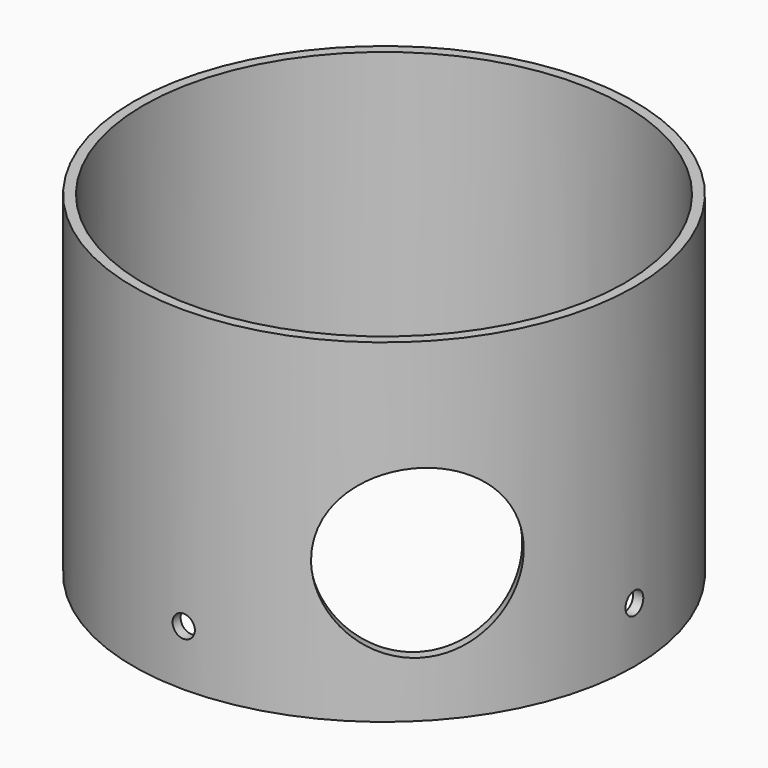
from build123d import *

# Parameters (mm, degrees)
TUBE_R             = 45
TUBE_R_2           = 43.2
TUBE_DEPTH         = 60
SKETCH_R           = 2
POCKET_DEPTH       = 326.425946
POCKET_DEPTH_BACK  = 326.425946
POLARPATTERN_COUNT = 4
SKETCH003_R        = 15
POCKET001_DEPTH    = 63.64061


with BuildPart() as part:
    # Tube → Tube (new body)
    with BuildSketch(Plane.XY):
        Circle(TUBE_R)
        Circle(TUBE_R_2, mode=Mode.SUBTRACT)
    extrude(amount=TUBE_DEPTH)

    # Sketch → Pocket (cut, two sides)
    with BuildSketch(Plane.XZ) as pocket_sk:
        with Locations((0, 10)):
            Circle(SKETCH_R)
    pocket = extrude(amount=-POCKET_DEPTH, mode=Mode.SUBTRACT) + extrude(pocket_sk.sketch, amount=POCKET_DEPTH_BACK, mode=Mode.SUBTRACT)

    # PolarPattern: Pocket ×4 about axis
    polarpattern_axis = Axis((0, 0, 0), (0, 0, 1))
    for i in range(1, POLARPATTERN_COUNT):
        add(pocket.rotate(polarpattern_axis, i * 360 / POLARPATTERN_COUNT), mode=Mode.SUBTRACT)

    # Sketch003 → Pocket001 (cut, through all)
    with BuildSketch(Plane(origin=(0, 0, 0), x_dir=(-0.707107, -0.707107, 0), z_dir=(-0.707107, 0.707107, 0))):
        with Locations((0, 25)):
            Circle(SKETCH003_R)
    extrude(amount=-POCKET001_DEPTH, mode=Mode.SUBTRACT)


solid = part.part
